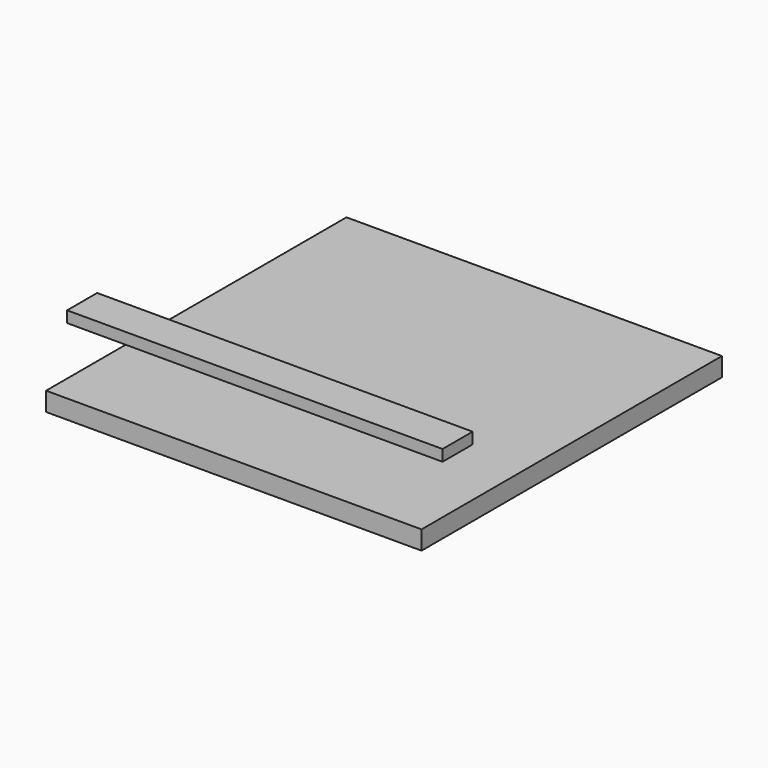
from build123d import *

# Parameters (mm, degrees)
BOX_W        = 100
BOX_H        = 10
BOX_DEPTH    = 3
BOX001_W     = 100
BOX001_H     = 100
BOX001_DEPTH = 5


with BuildPart() as baseupper:
    # Box → Box (new body)
    with BuildSketch(Plane(origin=(0, 7, 18), x_dir=(1, 0, 0), z_dir=(0, 0, 1))):
        with Locations((50, 5)):
            Rectangle(BOX_W, BOX_H)
    extrude(amount=BOX_DEPTH)


with BuildPart() as def_base:
    # Box001 → Box001 (new body)
    with BuildSketch(Plane.XY):
        with Locations((50, 50)):
            Rectangle(BOX001_W, BOX001_H)
    extrude(amount=BOX001_DEPTH)

    # Fusion: union BaseUpper
    add(baseupper.part)


with BuildPart() as def_base_1:
    # Fusion placement: moved
    add(def_base.part.moved(Location((-50, 0, 0))))


solid = def_base_1.part
